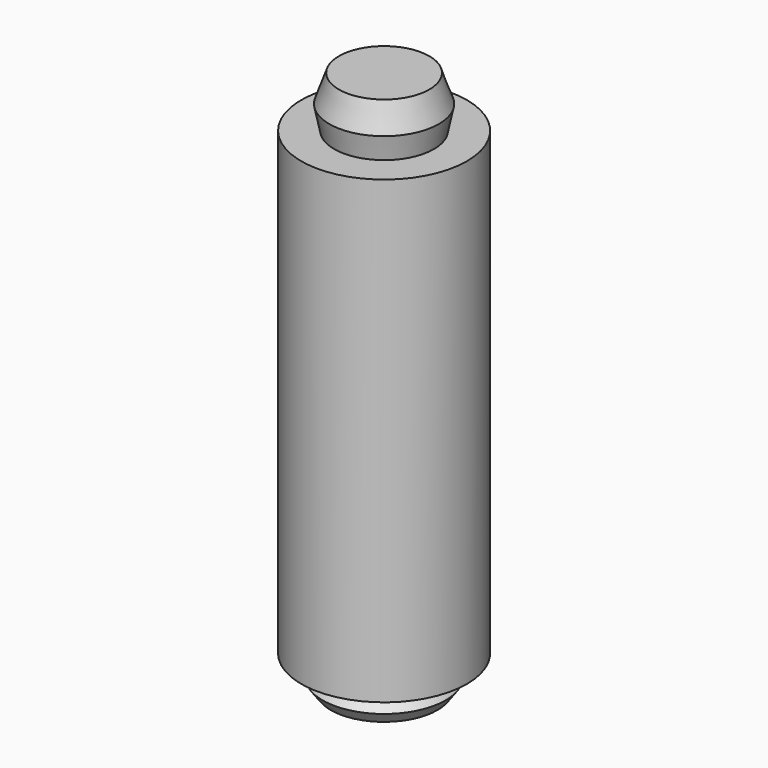
from build123d import *


with BuildPart() as f1:
    # F0 (on Front) → F1 (revolve)
    with BuildSketch(Plane.XZ):
        Polygon((0, 14.104124), (0, 12.7), (1.378153, 12.7), (1.513144, 13.351799), (1.248039, 14.104124), align=None)
        Polygon((1.465649, 0), (0, 0), (0, -0.897554), (1.474693, -0.897554), (1.697492, -0.588606), (1.465649, -0.329714), align=None)
        Polygon((0, 12.7), (0, 0), (1.465649, 0), (2.286, 0), (2.286, 12.7), (1.378153, 12.7), align=None)
    revolve(axis=Axis((0, 0, 7.052062), (0, 0, 1)))


solid = f1.part
